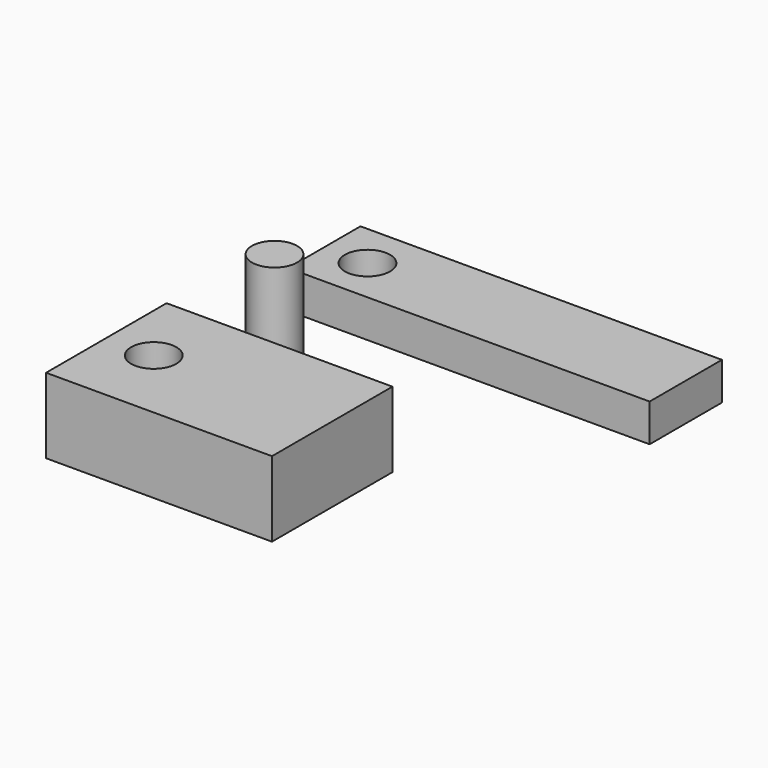
from build123d import *

# Parameters (mm, degrees)
F0_W     = 240
F0_H     = 60
F0_R     = 15
F1_DEPTH = 25
F2_R     = 15
F3_DEPTH = 60
F4_W     = 150
F4_H     = 100
F4_R     = 15
F5_DEPTH = 50


with BuildPart() as f1:
    # F0 (on Top) → F1 (new body)
    with BuildSketch(Plane.XY):
        with Locations((58.465285, 19.674728)):
            Rectangle(F0_W, F0_H)
        with Locations((-32.881599, 19.674728)):
            Circle(F0_R, mode=Mode.SUBTRACT)
    extrude(amount=F1_DEPTH)


with BuildPart() as f3:
    # F2 (on Top) → F3 (new body)
    with BuildSketch(Plane.XY):
        with Locations((-34.748107, -55.143096)):
            Circle(F2_R)
    extrude(amount=F3_DEPTH)


with BuildPart() as f5:
    # F4 (on Top) → F5 (new body)
    with BuildSketch(Plane.XY):
        with Locations((18.893618, -168.055004)):
            Rectangle(F4_W, F4_H)
        with Locations((-24.61046, -168.055004)):
            Circle(F4_R, mode=Mode.SUBTRACT)
    extrude(amount=F5_DEPTH)


solid = Compound([f1.part, f3.part, f5.part])
